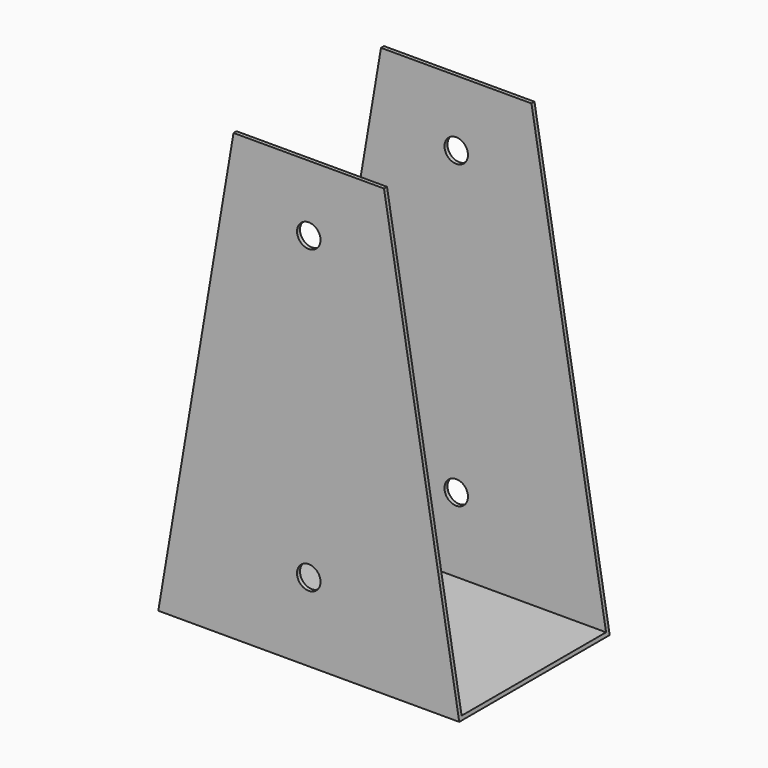
from build123d import *

# Parameters (mm, degrees)
F0_R     = 7.9375
F1_DEPTH = 127
F2_T     = -2.54


with BuildPart() as f1:
    # F0 (on Front) → F1 (new body)
    with BuildSketch(Plane.XZ):
        Polygon((-101.6, 0), (0, 0), (101.6, 0), (50.8, 300.536853), (0, 300.536853), (-50.8, 300.536853), align=None)
        with Locations((0, 52.786164)):
            Circle(F0_R, mode=Mode.SUBTRACT)
        with Locations((0, 255.986164)):
            Circle(F0_R, mode=Mode.SUBTRACT)
    extrude(amount=F1_DEPTH)

    # F2
    f2_openings = [f1.faces().sort_by_distance(p)[0] for p in [
        (-76.2, -63.5, 150.268426),
        (0, -63.5, 300.536853),
        (-7.9375, -63.5, 255.986164),
        (-7.9375, -63.5, 52.786164),
        (76.2, -63.5, 150.268426),
    ]]
    offset(amount=F2_T, openings=f2_openings)


solid = f1.part
